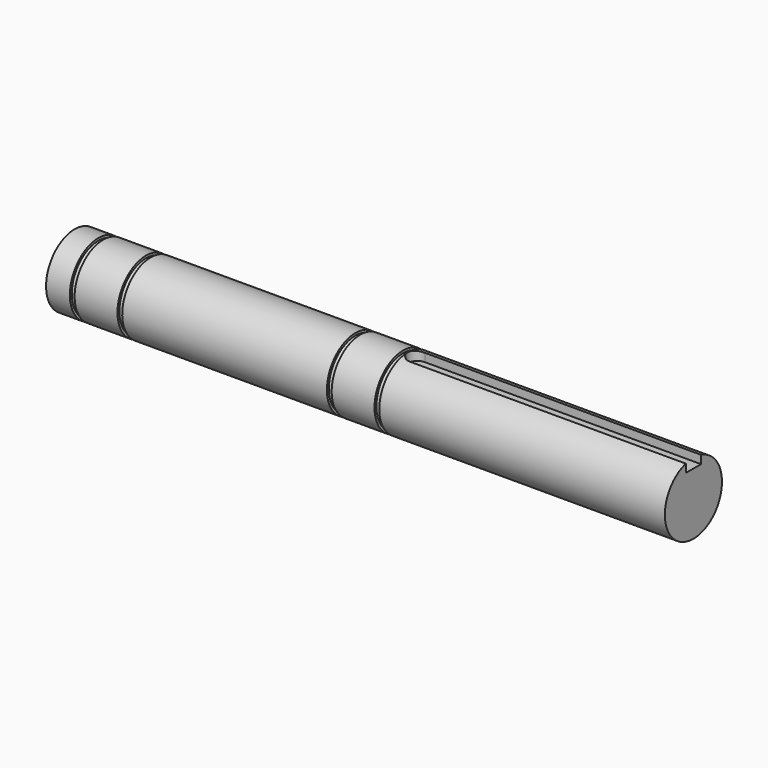
from build123d import *

# Parameters (mm, degrees)
F4_DEPTH = 2


with BuildPart() as f1:
    # F0 (on Front) → F1 (revolve)
    with BuildSketch(Plane.XZ):
        Polygon((0, 7.5), (0, 0), (130, 0), (130, 7.5), (70, 7.5), (70, 7), (69, 7), (69, 7.5), (60, 7.5), (60, 7), (59, 7), (59, 7.5), (16, 7.5), (16, 7), (15, 7), (15, 7.5), (6, 7.5), (6, 7), (5, 7), (5, 7.5), align=None)
    revolve(axis=Axis((65, 0, 0), (-1, 0, 0)))

    # F3 (on offset) → F4 (cut)
    with BuildSketch(Plane.XY.offset(7.5)):
        with BuildLine():
            Line((130, -2), (130, 0))
            Line((130, 0), (130, 2))
            Line((130, 2), (72.001, 2))
            ThreePointArc((72.001, 2), (70.001, 0), (72.001, -2))
            Line((72.001, -2), (130, -2))
        make_face()
    extrude(amount=-F4_DEPTH, mode=Mode.SUBTRACT)


solid = f1.part
